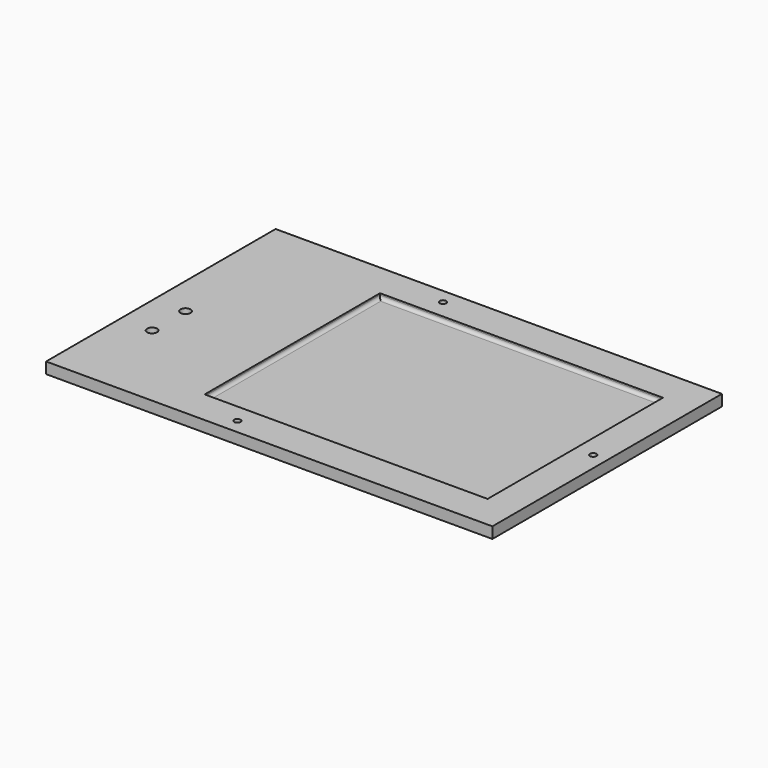
from build123d import *

# Parameters (mm, degrees)
F0_W     = 355.6
F0_H     = 228.6
F1_DEPTH = 8.89
F2_W     = 225.425
F2_H     = 174.625
F3_DEPTH = 3.81
F4_R     = 2.54
F6_D     = 5.1054
F8_D     = 7.9375


with BuildPart() as f1:
    # F0 (on Top) → F1 (new body)
    with BuildSketch(Plane.XY):
        Rectangle(F0_W, F0_H)
    extrude(amount=F1_DEPTH)

    # F2 (on face) → F3 (cut)
    with BuildSketch(Plane.XY.offset(8.89)):
        with Locations((39.6875, 0)):
            Rectangle(F2_W, F2_H)
    extrude(amount=-F3_DEPTH, mode=Mode.SUBTRACT)

    # F4
    f4_edges = [f1.edges().sort_by_distance(p)[0] for p in [
        (39.6875, -87.3125, 5.08),
        (152.4, 0, 5.08),
        (39.6875, 87.3125, 5.08),
        (-73.025, 0, 5.08),
    ]]
    fillet(f4_edges, radius=F4_R)

    # F6 (through all)
    with Locations(Plane.XY.offset(8.89)):
        with Locations((-34.925, -102.39375), (-34.925, 102.39375), (166.6875, 0)):
            Hole(F6_D / 2)

    # F8 (through all)
    with Locations(Plane.XY.offset(8.89)):
        with Locations((-152.4, -7.14375), (-152.4, -40.48125)):
            Hole(F8_D / 2)


solid = f1.part
